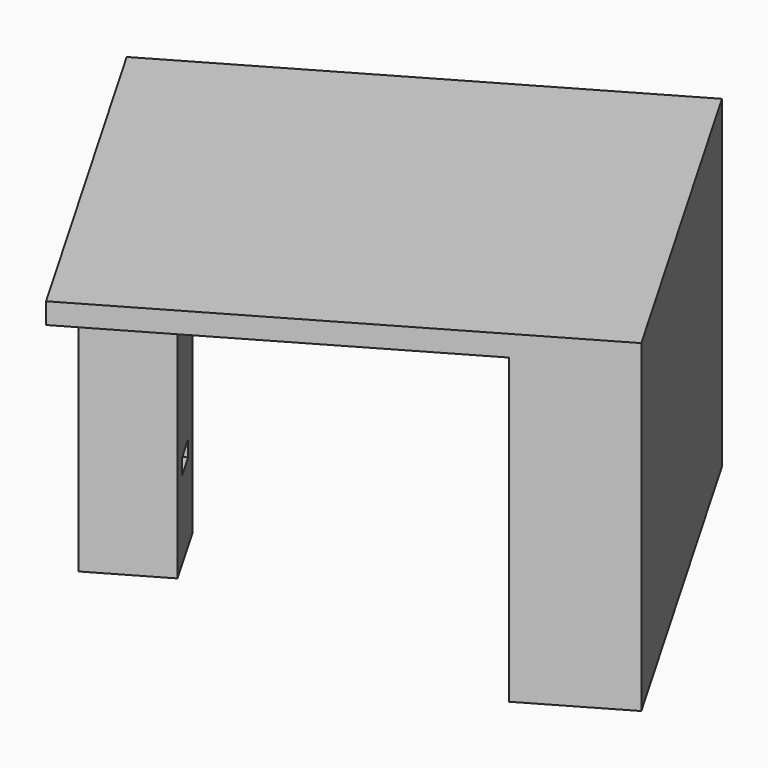
from build123d import *

# Parameters (mm, degrees)
BOX035_W                 = 6
BOX035_H                 = 15
BOX035_DEPTH             = 3
CYLINDER018_R            = 2
CYLINDER018_DEPTH        = 50
BOX_W                    = 15
BOX_H                    = 15
BOX_DEPTH                = 58
BOX038_W                 = 80
BOX038_H                 = 5
BOX038_DEPTH             = 58
BOX039_W                 = 80
BOX039_H                 = 90
BOX039_DEPTH             = 4
CLONE002_PLACEMENT_ANGLE = 120


with BuildPart() as nut_hole:
    # Box035 → Box035 (new body)
    with BuildSketch(Plane(origin=(-8.5, 5, 15), x_dir=(1, 0, 0), z_dir=(0, 0, 1))):
        with Locations((3, 7.5)):
            Rectangle(BOX035_W, BOX035_H)
    extrude(amount=BOX035_DEPTH)


with BuildPart() as cylinder:
    # Cylinder018 → Cylinder018 (new body)
    with BuildSketch(Plane(origin=(-5.5, 12, 0), x_dir=(1, 0, 0), z_dir=(0, 0, 1))):
        Circle(CYLINDER018_R)
    extrude(amount=CYLINDER018_DEPTH)


with BuildPart() as cut:
    # Box → Box (new body)
    with BuildSketch(Plane(origin=(-13, 5, 0), x_dir=(1, 0, 0), z_dir=(0, 0, 1))):
        with Locations((7.5, 7.5)):
            Rectangle(BOX_W, BOX_H)
    extrude(amount=BOX_DEPTH)

    # Cut: cut Cylinder
    add(cylinder.part, mode=Mode.SUBTRACT)


with BuildPart() as cut037:
    # Cut037 base: copy of Cut
    add(cut.part)

    # Cut037: cut Nut hole
    add(nut_hole.part, mode=Mode.SUBTRACT)


with BuildPart() as cut037_1:
    # Cut037 placement: moved
    add(cut037.part.moved(Location((-22, 0, 0))))


with BuildPart() as cut038:
    # Cut038 base: copy of Cut
    add(cut.part)

    # Cut038: cut Nut hole
    add(nut_hole.part, mode=Mode.SUBTRACT)


with BuildPart() as cut038_1:
    # Cut038 placement: moved
    add(cut038.part.moved(Location((43, 0, 0))))


with BuildPart() as extension_supports:
    # Cut039 base: copy of Cut
    add(cut.part)

    # Cut039: cut Nut hole
    add(nut_hole.part, mode=Mode.SUBTRACT)


with BuildPart() as extension_supports_1:
    # Cut039 placement: moved
    add(extension_supports.part.moved(Location((10, 70, 0))))

    # Fusion082: union Cut037, Cut038
    add(cut037_1.part)
    add(cut038_1.part)


with BuildPart() as cube002:
    # Box038 → Box038 (new body)
    with BuildSketch(Plane(origin=(-35, 0, 0), x_dir=(1, 0, 0), z_dir=(0, 0, 1))):
        with Locations((40, 2.5)):
            Rectangle(BOX038_W, BOX038_H)
    extrude(amount=BOX038_DEPTH)


with BuildPart() as clone002:
    # Box039 → Box039 (new body)
    with BuildSketch(Plane(origin=(-35, 0, 58), x_dir=(1, 0, 0), z_dir=(0, 0, 1))):
        with Locations((40, 45)):
            Rectangle(BOX039_W, BOX039_H)
    extrude(amount=BOX039_DEPTH)

    # Fusion081: union Cube002
    add(cube002.part)

    # Fusion084: union Extension supports
    add(extension_supports_1.part)


with BuildPart() as clone002_1:
    # Clone002 placement: moved
    add(clone002.part.moved(Location((122.810889, 195.394192, 0))).rotate(Axis((122.810889, 195.394192, 0), (0, 0, 1)), CLONE002_PLACEMENT_ANGLE))


solid = clone002_1.part
